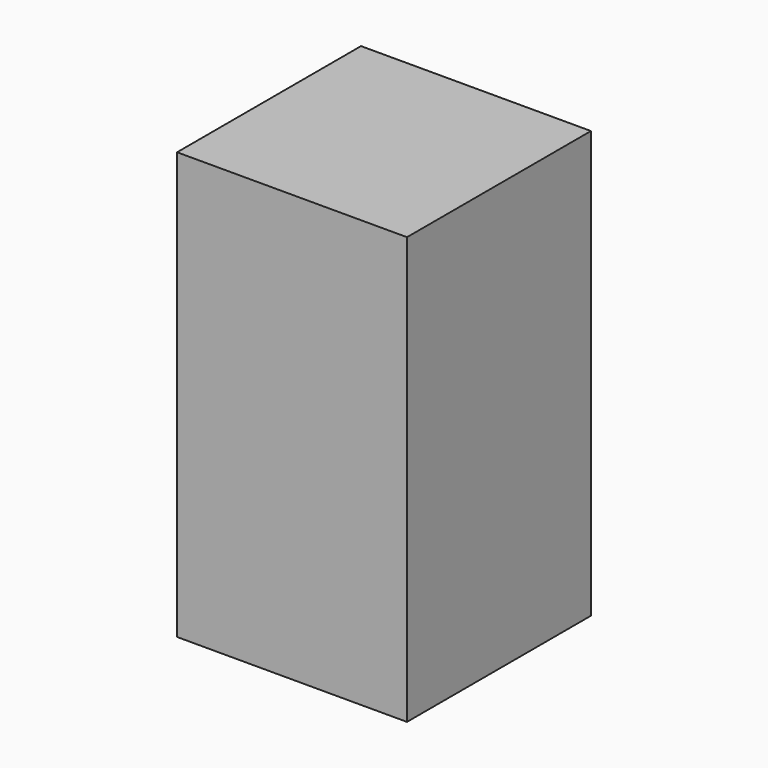
from build123d import *

# Parameters (mm, degrees)
F0_W     = 95.8
F0_H     = 95.8
F1_DEPTH = 88.9
F2_T     = -0.5


with BuildPart() as f1:
    # F0 (on Top) → F1 (new body, symmetric)
    with BuildSketch(Plane.XY):
        Rectangle(F0_W, F0_H)
    extrude(amount=F1_DEPTH, both=True)

    # F2
    f2_openings = [f1.faces().sort_by_distance(p)[0] for p in [
        (0, 0, -88.9),
    ]]
    offset(amount=F2_T, openings=f2_openings)


solid = f1.part
